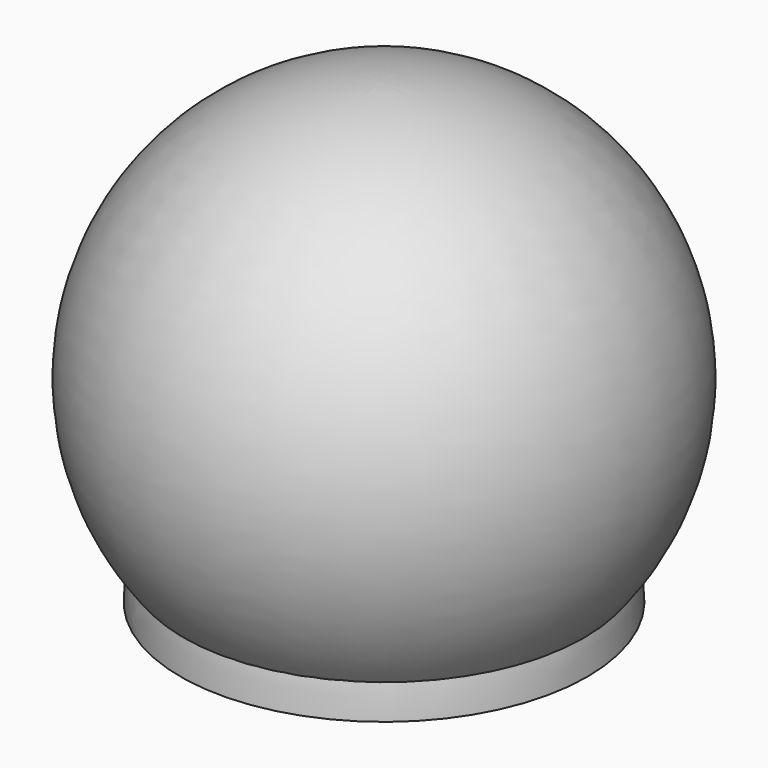
from build123d import *

# Parameters (mm, degrees)
F2_R     = 1.524
F3_DEPTH = 12.7
F4_SIZE  = 1.016
F7_R     = 2.286
F8_DEPTH = 25.4


with BuildPart() as f1:
    # F0 (on Front) → F1 (revolve)
    with BuildSketch(Plane.XZ):
        with BuildLine():
            Line((46.620936, 0), (53.623111, 8.344867))
            ThreePointArc((53.623111, 8.344867), (63.441545, 82.923278), (0, 123.34))
            Line((0, 123.34), (0, 0))
            Line((0, 0), (46.620936, 0))
        make_face()
        with BuildLine():
            ThreePointArc((33.158544, 110.452105), (65.415264, 62.402276), (47.435795, 7.392998))
            Line((47.435795, 7.392998), (23.256794, 7.392998))
            ThreePointArc((23.256794, 7.392998), (5.245885, 61.128682), (33.158544, 110.452105))
        make_face(mode=Mode.SUBTRACT)
        with BuildLine():
            Line((23.256794, 7.392998), (47.435795, 7.392998))
            ThreePointArc((47.435795, 7.392998), (65.415264, 62.402276), (33.158544, 110.452105))
            ThreePointArc((33.158544, 110.452105), (5.245885, 61.128682), (23.256794, 7.392998))
        make_face()
    revolve(axis=Axis((0, 0, -28.751576), (0, 0, -1)))

    # F2 (on face) → F3 (cut)
    with BuildSketch(Plane(origin=(0, 0, 0), x_dir=(1, 0, 0), z_dir=(0, 0, -1))):
        Circle(F2_R)
    extrude(amount=-F3_DEPTH, mode=Mode.SUBTRACT)

    # F4
    f4_edges = [f1.edges().sort_by_distance(p)[0] for p in [
        (-1.524, 0, 12.7),
    ]]
    chamfer(f4_edges, length=F4_SIZE)


with BuildPart() as f6:
    # F5 (on Front) → F6 (revolve)
    with BuildSketch(Plane.XZ):
        with BuildLine():
            Line((0, -1.016), (0, -17.502553))
            ThreePointArc((0, -17.502553), (24.899051, -12.98273), (46.620936, 0))
            Line((46.620936, 0), (40.270936, 0))
            Line((40.270936, 0), (40.270936, -1.016))
            Line((40.270936, -1.016), (0, -1.016))
        make_face()
    revolve(axis=Axis((0, 0, -28.751576), (0, 0, -1)))

    # F7 (on face) → F8 (cut)
    with BuildSketch(Plane.XY.offset(-1.016)):
        Circle(F7_R)
    extrude(amount=-F8_DEPTH, mode=Mode.SUBTRACT)


with BuildPart() as f10:
    # F9 (on Front) → F10 (revolve)
    with BuildSketch(Plane.XZ):
        with BuildLine():
            Line((17.5, 0), (55, 0))
            ThreePointArc((55, 0), (39.417636, 38.356877), (1.5, 54.979542))
            Line((1.5, 54.979542), (1.5, 41.979542))
            Line((1.5, 41.979542), (17.5, 22.911484))
            Line((17.5, 22.911484), (17.5, 0))
        make_face()
    revolve(axis=Axis((0, 0, 27.5), (0, 0, 1)))


solid = Compound([f1.part, f6.part, f10.part])
